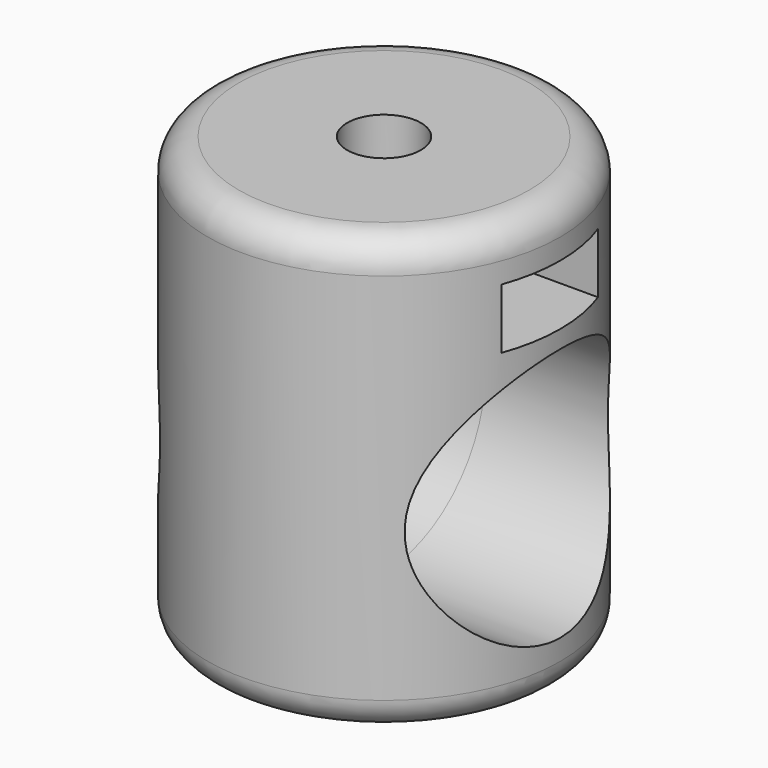
from build123d import *

# Parameters (mm, degrees)
F0_R          = 8.5
F1_DEPTH      = 21
F2_R          = 6.125
F3_DEPTH      = 8.501
F3_DEPTH_BACK = 25.4
F4_R          = 1.5
F5_W          = 5.8
F5_H          = 2.9
F6_DEPTH      = 25.4
F6_DEPTH_BACK = 25.4
F7_R          = 1.778
F8_DEPTH      = 10


with BuildPart() as f1:
    # F0 (on Top) → F1 (new body)
    with BuildSketch(Plane.XY):
        Circle(F0_R)
    extrude(amount=F1_DEPTH)

    # F2 (on Right) → F3 (cut, two sides)
    with BuildSketch(Plane.YZ) as f3_sk:
        with Locations((0, 8.625)):
            Circle(F2_R)
    extrude(amount=-F3_DEPTH, mode=Mode.SUBTRACT)
    extrude(f3_sk.sketch, amount=F3_DEPTH_BACK, mode=Mode.SUBTRACT)

    # F4
    f4_edges = [f1.edges().sort_by_distance(p)[0] for p in [
        (-8.5, 0, 0),
        (-8.5, 0, 21),
    ]]
    fillet(f4_edges, radius=F4_R)

    # F5 (on Right) → F6 (cut, two sides)
    with BuildSketch(Plane.YZ) as f6_sk:
        with Locations((0, 17.05)):
            Rectangle(F5_W, F5_H)
    extrude(amount=-F6_DEPTH, mode=Mode.SUBTRACT)
    extrude(f6_sk.sketch, amount=F6_DEPTH_BACK, mode=Mode.SUBTRACT)

    # F7 (on face) → F8 (cut)
    with BuildSketch(Plane.XY.offset(21)):
        Circle(F7_R)
    extrude(amount=-F8_DEPTH, mode=Mode.SUBTRACT)


solid = f1.part
